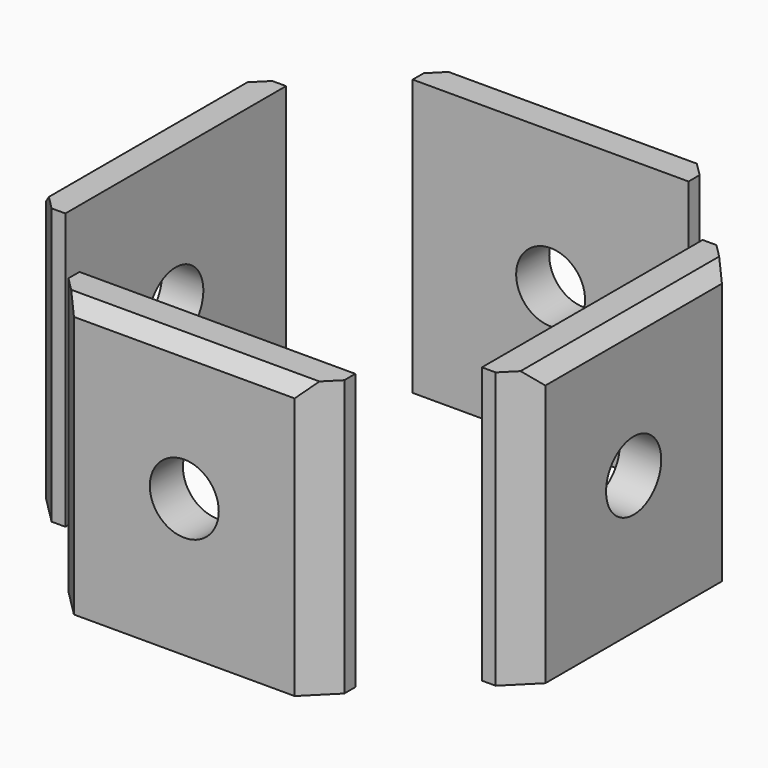
from build123d import *

# Parameters (mm, degrees)
CYLINDER002_R               = 2.5
CYLINDER002_DEPTH           = 10
CYLINDER003_R               = 2.5
CYLINDER003_DEPTH           = 10
CYLINDER003_ROLL_ANGLE      = 90
CYLINDER003_PLACEMENT_ANGLE = 180
CYLINDER004_R               = 2.5
CYLINDER004_DEPTH           = 10
CYLINDER004_ROLL_ANGLE      = 90
CYLINDER004_PITCH_ANGLE     = 0
CYLINDER004_PLACEMENT_ANGLE = -90
CYLINDER001_R               = 2.5
CYLINDER001_DEPTH           = 10
BOX002_W                    = 20
BOX002_H                    = 3
BOX002_DEPTH                = 20
BOX003_W                    = 20
BOX003_H                    = 3
BOX003_DEPTH                = 20
BOX004_W                    = 20
BOX004_H                    = 3
BOX004_DEPTH                = 20
BOX001_W                    = 20
BOX001_H                    = 3
BOX001_DEPTH                = 20
CHAMFER002_SIZE             = 2
CHAMFER003_SIZE             = 2
CHAMFER004_SIZE             = 1


with BuildPart() as obj1:
    # Cylinder002 → Cylinder002 (new body)
    with BuildSketch(Plane(origin=(12, 0, 30), x_dir=(0, 1, 0), z_dir=(1, 0, 0))):
        Circle(CYLINDER002_R)
    extrude(amount=CYLINDER002_DEPTH)


with BuildPart() as obj2:
    # Cylinder003 → Cylinder003 (new body)
    with BuildSketch(Plane.XY):
        Circle(CYLINDER003_R)
    extrude(amount=CYLINDER003_DEPTH)


with BuildPart() as obj2_1:
    # Cylinder003 roll: moved
    add(obj2.part.rotate(Axis((0, 0, 0), (1, 0, 0)), CYLINDER003_ROLL_ANGLE))


with BuildPart() as obj2_2:
    # Cylinder003 placement: moved
    add(obj2_1.part.moved(Location((0, 12, 30))).rotate(Axis((0, 12, 30), (0, 0, 1)), CYLINDER003_PLACEMENT_ANGLE))


with BuildPart() as obj3:
    # Cylinder004 → Cylinder004 (new body)
    with BuildSketch(Plane.XY):
        Circle(CYLINDER004_R)
    extrude(amount=CYLINDER004_DEPTH)


with BuildPart() as obj3_1:
    # Cylinder004 roll: moved
    add(obj3.part.rotate(Axis((0, 0, 0), (1, 0, 0)), CYLINDER004_ROLL_ANGLE))


with BuildPart() as obj3_2:
    # Cylinder004 pitch: moved
    add(obj3_1.part.rotate(Axis((0, 0, 0), (0, 1, 0)), CYLINDER004_PITCH_ANGLE))


with BuildPart() as obj3_3:
    # Cylinder004 placement: moved
    add(obj3_2.part.moved(Location((-12, 0, 30))).rotate(Axis((-12, 0, 30), (0, 0, 1)), CYLINDER004_PLACEMENT_ANGLE))


with BuildPart() as compound001:
    # Cylinder001 → Cylinder001 (new body)
    with BuildSketch(Plane(origin=(0, -12, 30), x_dir=(1, 0, 0), z_dir=(0, -1, 0))):
        Circle(CYLINDER001_R)
    extrude(amount=CYLINDER001_DEPTH)

    # Compound001: union obj1, obj2, obj3
    add(obj1.part)
    add(obj2_2.part)
    add(obj3_3.part)


with BuildPart() as krychle002:
    # Box002 → Box002 (new body)
    with BuildSketch(Plane(origin=(-15.1, -10, 20), x_dir=(0, 1, 0), z_dir=(0, 0, 1))):
        with Locations((10, 1.5)):
            Rectangle(BOX002_W, BOX002_H)
    extrude(amount=BOX002_DEPTH)


with BuildPart() as krychle003:
    # Box003 → Box003 (new body)
    with BuildSketch(Plane(origin=(10, -15.1, 20), x_dir=(-1, 0, 0), z_dir=(0, 0, 1))):
        with Locations((10, 1.5)):
            Rectangle(BOX003_W, BOX003_H)
    extrude(amount=BOX003_DEPTH)


with BuildPart() as krychle004:
    # Box004 → Box004 (new body)
    with BuildSketch(Plane(origin=(15.1, 10, 20), x_dir=(0, -1, 0), z_dir=(0, 0, 1))):
        with Locations((10, 1.5)):
            Rectangle(BOX004_W, BOX004_H)
    extrude(amount=BOX004_DEPTH)


with BuildPart() as chamfer004:
    # Box001 → Box001 (new body)
    with BuildSketch(Plane(origin=(-10, 15.1, 20), x_dir=(1, 0, 0), z_dir=(0, 0, 1))):
        with Locations((10, 1.5)):
            Rectangle(BOX001_W, BOX001_H)
    extrude(amount=BOX001_DEPTH)

    # Compound725: union Krychle002, Krychle003, Krychle004
    add(krychle002.part)
    add(krychle003.part)
    add(krychle004.part)

    # Cut001: cut Compound001
    add(compound001.part, mode=Mode.SUBTRACT)

    # Chamfer002
    chamfer002_edges = [chamfer004.edges().sort_by_distance(p)[0] for p in [
        (-10, 18.1, 30),
        (10, 18.1, 30),
        (-18.1, -10, 30),
        (-18.1, 10, 30),
        (-10, -18.1, 30),
    ]]
    chamfer(chamfer002_edges, length=CHAMFER002_SIZE)

    # Chamfer003
    chamfer003_edges = [chamfer004.edges().sort_by_distance(p)[0] for p in [
        (10, -18.1, 30),
        (18.1, 10, 30),
        (18.1, -10, 30),
    ]]
    chamfer(chamfer003_edges, length=CHAMFER003_SIZE)

    # Chamfer004
    chamfer004_edges = [chamfer004.edges().sort_by_distance(p)[0] for p in [
        (0, -18.1, 40),
        (18.1, 0, 40),
        (0, 18.1, 40),
        (-18.1, 0, 40),
    ]]
    chamfer(chamfer004_edges, length=CHAMFER004_SIZE)


solid = chamfer004.part
